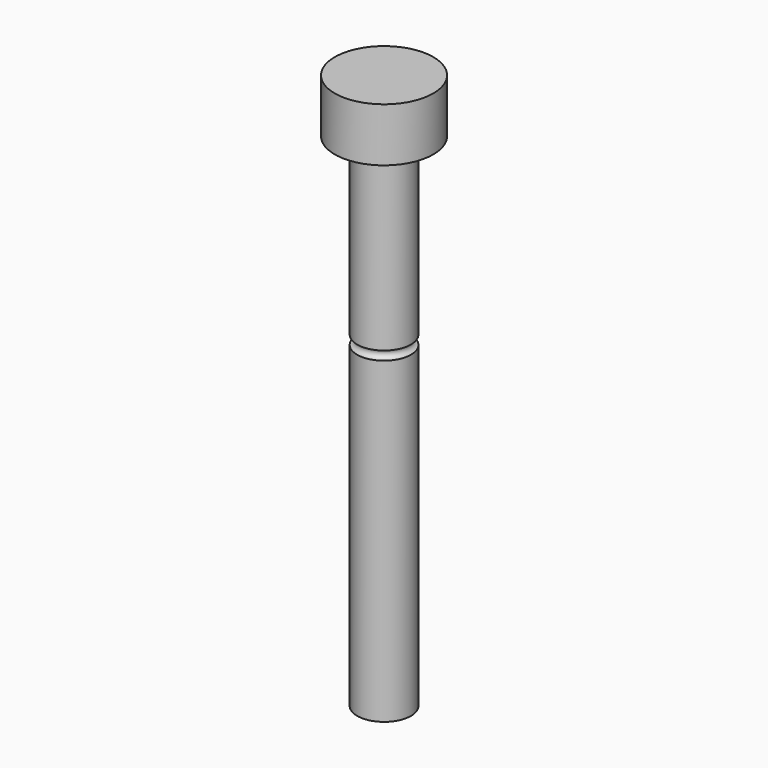
from build123d import *


with BuildPart() as f1:
    # F0 (on Front) → F1 (revolve)
    with BuildSketch(Plane.XZ):
        with BuildLine():
            Line((0, 31), (0, 0))
            Line((0, 0), (1.5, 0))
            Line((1.5, 0), (1.5, 17.75))
            ThreePointArc((1.5, 17.75), (1.25, 18), (1.5, 18.25))
            Line((1.5, 18.25), (1.5, 28))
            Line((1.5, 28), (2.75, 28))
            Line((2.75, 28), (2.75, 31))
            Line((2.75, 31), (0, 31))
        make_face()
    revolve(axis=Axis((0, 0, 15.5), (0, 0, 1)))


solid = f1.part
